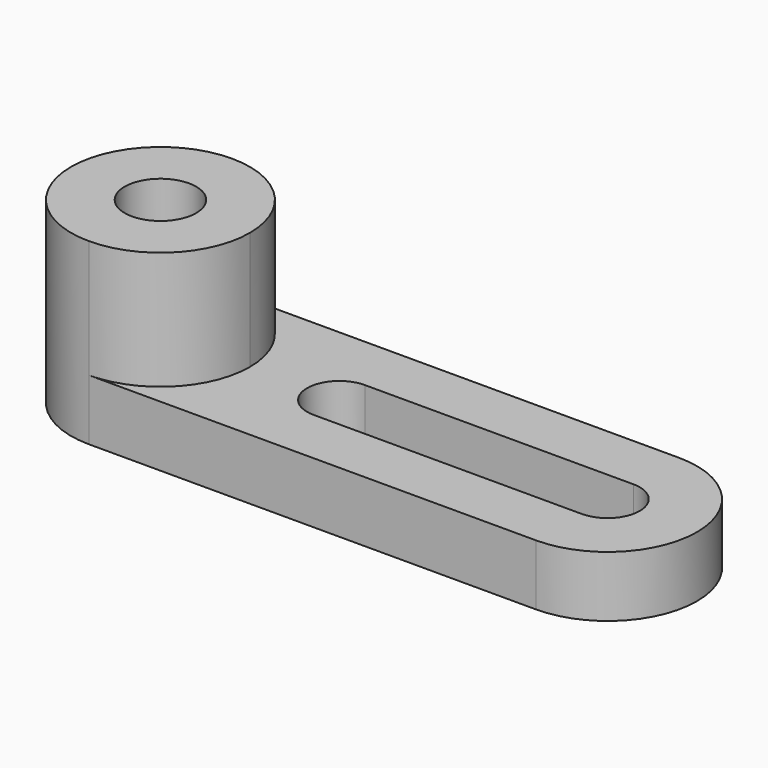
from build123d import *

# Parameters (mm, degrees)
F0_R     = 10
F1_DEPTH = 17
F2_R     = 10
F3_DEPTH = 33


with BuildPart() as f1:
    # F0 (on Top) → F1 (new body)
    with BuildSketch(Plane.XY):
        with BuildLine():
            Line((-125, -25), (0, -25))
            ThreePointArc((0, -25), (25, 0), (0, 25))
            Line((0, 25), (-125, 25))
            ThreePointArc((-125, 25), (-107.32233, 17.67767), (-100, 0))
            ThreePointArc((-100, 0), (-107.32233, -17.67767), (-125, -25))
        make_face()
        with BuildLine():
            ThreePointArc((0, 9), (9, 0), (0, -9))
            Line((0, -9), (-75, -9))
            ThreePointArc((-75, -9), (-84, 0), (-75, 9))
            Line((-75, 9), (0, 9))
        make_face(mode=Mode.SUBTRACT)
        with BuildLine():
            ThreePointArc((-125, 25), (-150, 0), (-125, -25))
            ThreePointArc((-125, -25), (-107.32233, -17.67767), (-100, 0))
            ThreePointArc((-100, 0), (-107.32233, 17.67767), (-125, 25))
        make_face()
        with Locations((-125, 0)):
            Circle(F0_R, mode=Mode.SUBTRACT)
    extrude(amount=F1_DEPTH)

    # F2 (on face) → F3 (join)
    with BuildSketch(Plane.XY.offset(17)):
        with BuildLine():
            ThreePointArc((-125, -25), (-107.32233, -17.67767), (-100, 0))
            ThreePointArc((-100, 0), (-107.32233, 17.67767), (-125, 25))
            ThreePointArc((-125, 25), (-150, 0), (-125, -25))
        make_face()
        with Locations((-125, 0)):
            Circle(F2_R, mode=Mode.SUBTRACT)
    extrude(amount=F3_DEPTH)


solid = f1.part
